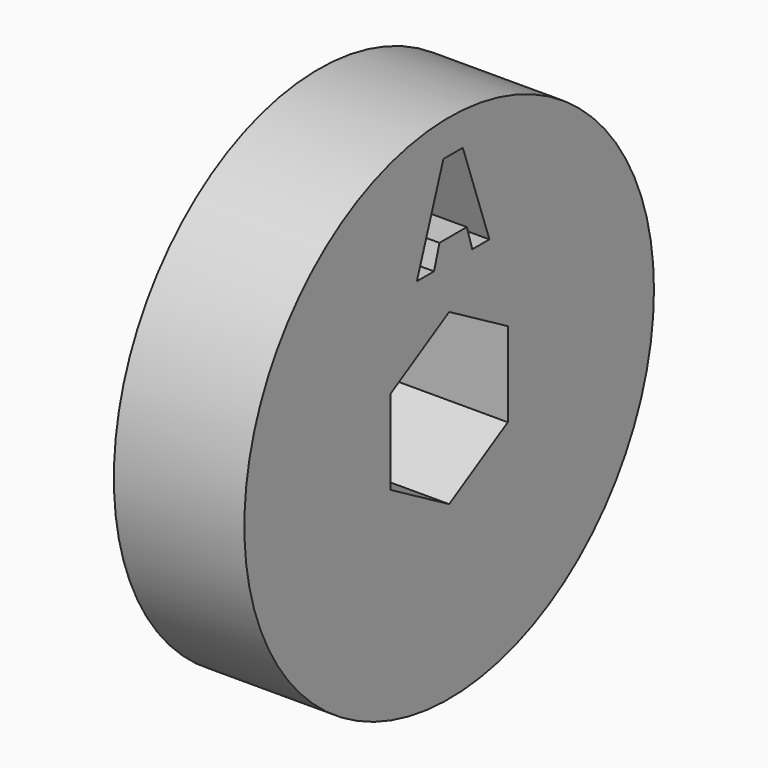
from build123d import *

# Parameters (mm, degrees)
F0_R     = 49.8262178017
F1_DEPTH = 25.4


with BuildPart() as f1:
    # F0 (on Right) → F1 (new body)
    with BuildSketch(Plane.YZ):
        Circle(F0_R)
        Polygon((0, 16.4663507803), (14.2602780834, 8.2331753902), (14.2602780834, -8.2331753902), (0, -16.4663507803), (-14.2602780834, -8.2331753902), (-14.2602780834, 8.2331753902), align=None, mode=Mode.SUBTRACT)
        Polygon((9.792535721, 24.9100513756), (5.6211181315, 24.9100513756), (4.2985709838, 29.2572758367), (-2.3581164722, 29.2572758367), (-3.6806636199, 24.9100513756), (-7.8520812094, 24.9100513756), (-1.4071611214, 43.2419133495), (3.3236419687, 43.2419133495), align=None, mode=Mode.SUBTRACT)
    extrude(amount=F1_DEPTH)


solid = f1.part
